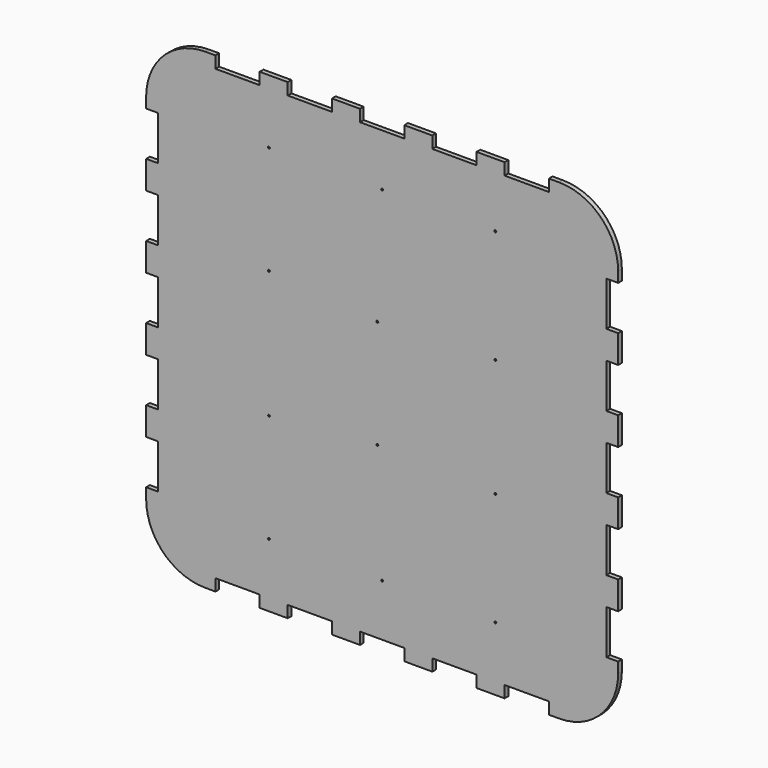
from build123d import *

# Parameters (mm, degrees)
F0_R     = 0.05
F0_R_2   = 10.31875
F0_R_3   = 2
F1_DEPTH = 10
F2_R     = 127


with BuildPart() as f1:
    # F0 (on Front) → F1 (new body)
    with BuildSketch(Plane.XZ):
        Polygon((508, 358.775), (508, 508), (358.775, 508), (358.775, 482.6), (263.525, 482.6), (263.525, 508), (203.2, 508), (203.2, 482.6), (107.95, 482.6), (107.95, 508), (47.625, 508), (47.625, 482.6), (-47.625, 482.6), (-47.625, 508), (-107.95, 508), (-107.95, 482.6), (-203.2, 482.6), (-203.2, 508), (-263.525, 508), (-263.525, 482.6), (-358.775, 482.6), (-358.775, 508), (-508, 508), (-508, 358.775), (-482.6, 358.775), (-482.6, 263.525), (-508, 263.525), (-508, 203.2), (-482.6, 203.2), (-482.6, 107.95), (-508, 107.95), (-508, 47.625), (-482.6, 47.625), (-482.6, -47.625), (-508, -47.625), (-508, -107.95), (-482.6, -107.95), (-482.6, -203.2), (-508, -203.2), (-508, -263.525), (-482.6, -263.525), (-482.6, -358.775), (-508, -358.775), (-508, -508), (-358.775, -508), (-358.775, -482.6), (-263.525, -482.6), (-263.525, -508), (-203.2, -508), (-203.2, -482.6), (-107.95, -482.6), (-107.95, -508), (-47.625, -508), (-47.625, -482.6), (47.625, -482.6), (47.625, -508), (107.95, -508), (107.95, -482.6), (203.2, -482.6), (203.2, -508), (263.525, -508), (263.525, -482.6), (358.775, -482.6), (358.775, -508), (508, -508), (508, -358.775), (482.6, -358.775), (482.6, -263.525), (508, -263.525), (508, -203.2), (482.6, -203.2), (482.6, -107.95), (508, -107.95), (508, -47.625), (482.6, -47.625), (482.6, 47.625), (508, 47.625), (508, 107.95), (482.6, 107.95), (482.6, 203.2), (508, 203.2), (508, 263.525), (482.6, 263.525), (482.6, 358.775), align=None)
        with Locations((-254, -381)):
            Circle(F0_R, mode=Mode.SUBTRACT)
        with Locations((-243.68125, -370.68125)):
            Circle(F0_R_2, mode=Mode.SUBTRACT)
        with Locations((-243.68125, -137.31875)):
            Circle(F0_R_2, mode=Mode.SUBTRACT)
        with Locations((-254, -127)):
            Circle(F0_R, mode=Mode.SUBTRACT)
        with Locations((-10.31875, -116.68125)):
            Circle(F0_R_2, mode=Mode.SUBTRACT)
        with BuildLine():
            ThreePointArc((0.0499998533, -380.9998788613), (0.0499999633, -380.9999394306), (0.05, -381))
            ThreePointArc((0.05, -381), (-6.05694e-05, -381.0499999633), (-0.0499998533, -380.9998788613))
            ThreePointArc((-0.0499998533, -380.9998788613), (-7.2787590143, -363.3671356466), (10.31875, -370.68125))
            ThreePointArc((10.31875, -370.68125), (7.3141143534, -377.9600090143), (0.0499998533, -380.9998788613))
        make_face(mode=Mode.SUBTRACT)
        with Locations((243.68125, -370.68125)):
            Circle(F0_R_2, mode=Mode.SUBTRACT)
        with Locations((254, -381)):
            Circle(F0_R, mode=Mode.SUBTRACT)
        with Locations((0, -127)):
            Circle(F0_R, mode=Mode.SUBTRACT)
        with BuildLine():
            ThreePointArc((253.9998788613, -126.9500001467), (254.0353124841, -126.9646018579), (254.05, -127))
            ThreePointArc((254.05, -127), (254.0353124841, -127.0353981421), (253.9998788613, -127.0499998533))
            ThreePointArc((253.9998788613, -127.0499998533), (233.3625, -127), (253.9998788613, -126.9500001467))
        make_face(mode=Mode.SUBTRACT)
        with Locations((-10.31875, 116.6792185501)):
            Circle(F0_R_2, mode=Mode.SUBTRACT)
        with Locations((-254, 127)):
            Circle(F0_R, mode=Mode.SUBTRACT)
        with Locations((-243.68125, 137.2707814499)):
            Circle(F0_R_2, mode=Mode.SUBTRACT)
        with Locations((-243.68125, 370.68125)):
            Circle(F0_R_2, mode=Mode.SUBTRACT)
        with Locations((-254, 381)):
            Circle(F0_R, mode=Mode.SUBTRACT)
        with Locations((0, 127)):
            Circle(F0_R, mode=Mode.SUBTRACT)
        with BuildLine():
            ThreePointArc((253.9998788613, 127.0499998533), (254.0353124841, 127.0353981421), (254.05, 127))
            ThreePointArc((254.05, 127), (254.0353124841, 126.9646018579), (253.9998788613, 126.9500001467))
            ThreePointArc((253.9998788613, 126.9500001467), (233.3625, 127), (253.9998788613, 127.0499998533))
        make_face(mode=Mode.SUBTRACT)
        with BuildLine():
            ThreePointArc((-0.0499998533, 380.9998788613), (-6.05694e-05, 381.0499999633), (0.05, 381))
            ThreePointArc((0.05, 381), (0.0499999633, 380.9999394306), (0.0499998533, 380.9998788613))
            ThreePointArc((0.0499998533, 380.9998788613), (7.3141143534, 377.9600090143), (10.31875, 370.68125))
            ThreePointArc((10.31875, 370.68125), (-7.2787590143, 363.3671356466), (-0.0499998533, 380.9998788613))
        make_face(mode=Mode.SUBTRACT)
        with Locations((243.68125, 370.68125)):
            Circle(F0_R_2, mode=Mode.SUBTRACT)
        with Locations((254, 381)):
            Circle(F0_R, mode=Mode.SUBTRACT)
        with Locations((-243.68125, 370.68125)):
            Circle(F0_R_2)
        with Locations((-243.68125, 370.68125)):
            Circle(F0_R_3, mode=Mode.SUBTRACT)
        with BuildLine():
            ThreePointArc((0.0499998533, 380.9998788613), (0, 380.95), (-0.0499998533, 380.9998788613))
            ThreePointArc((-0.0499998533, 380.9998788613), (-7.2787590143, 363.3671356466), (10.31875, 370.68125))
            ThreePointArc((10.31875, 370.68125), (7.3141143534, 377.9600090143), (0.0499998533, 380.9998788613))
        make_face()
        with Locations((0, 370.68125)):
            Circle(F0_R_3, mode=Mode.SUBTRACT)
        with Locations((243.68125, 370.68125)):
            Circle(F0_R_2)
        with Locations((243.68125, 370.68125)):
            Circle(F0_R_3, mode=Mode.SUBTRACT)
        with Locations((-243.68125, 137.2707814499)):
            Circle(F0_R_2)
        with Locations((-243.68125, 137.2707814499)):
            Circle(F0_R_3, mode=Mode.SUBTRACT)
        with Locations((-10.31875, 116.6792185501)):
            Circle(F0_R_2)
        with Locations((-10.31875, 116.6792185501)):
            Circle(F0_R_3, mode=Mode.SUBTRACT)
        with BuildLine():
            ThreePointArc((253.9998788613, 126.9500001467), (253.95, 127), (253.9998788613, 127.0499998533))
            ThreePointArc((253.9998788613, 127.0499998533), (233.3625, 127), (253.9998788613, 126.9500001467))
        make_face()
        with Locations((243.68125, 127)):
            Circle(F0_R_3, mode=Mode.SUBTRACT)
        with Locations((-243.68125, -137.31875)):
            Circle(F0_R_2)
        with Locations((-243.68125, -137.31875)):
            Circle(F0_R_3, mode=Mode.SUBTRACT)
        with Locations((-10.31875, -116.68125)):
            Circle(F0_R_2)
        with Locations((-10.31875, -116.68125)):
            Circle(F0_R_3, mode=Mode.SUBTRACT)
        with BuildLine():
            ThreePointArc((253.9998788613, -127.0499998533), (253.95, -127), (253.9998788613, -126.9500001467))
            ThreePointArc((253.9998788613, -126.9500001467), (233.3625, -127), (253.9998788613, -127.0499998533))
        make_face()
        with Locations((243.68125, -127)):
            Circle(F0_R_3, mode=Mode.SUBTRACT)
        with Locations((243.68125, -370.68125)):
            Circle(F0_R_2)
        with Locations((243.68125, -370.68125)):
            Circle(F0_R_3, mode=Mode.SUBTRACT)
        with BuildLine():
            ThreePointArc((-0.0499998533, -380.9998788613), (0, -380.95), (0.0499998533, -380.9998788613))
            ThreePointArc((0.0499998533, -380.9998788613), (7.3141143534, -377.9600090143), (10.31875, -370.68125))
            ThreePointArc((10.31875, -370.68125), (-7.2787590143, -363.3671356466), (-0.0499998533, -380.9998788613))
        make_face()
        with Locations((0, -370.68125)):
            Circle(F0_R_3, mode=Mode.SUBTRACT)
        with Locations((-243.68125, -370.68125)):
            Circle(F0_R_2)
        with Locations((-243.68125, -370.68125)):
            Circle(F0_R_3, mode=Mode.SUBTRACT)
    extrude(amount=F1_DEPTH)

    # F2
    f2_edges = [f1.edges().sort_by_distance(p)[0] for p in [
        (-508, -5, 508),
        (508, -5, 508),
        (508, -5, -508),
        (-508, -5, -508),
    ]]
    fillet(f2_edges, radius=F2_R)


solid = f1.part
